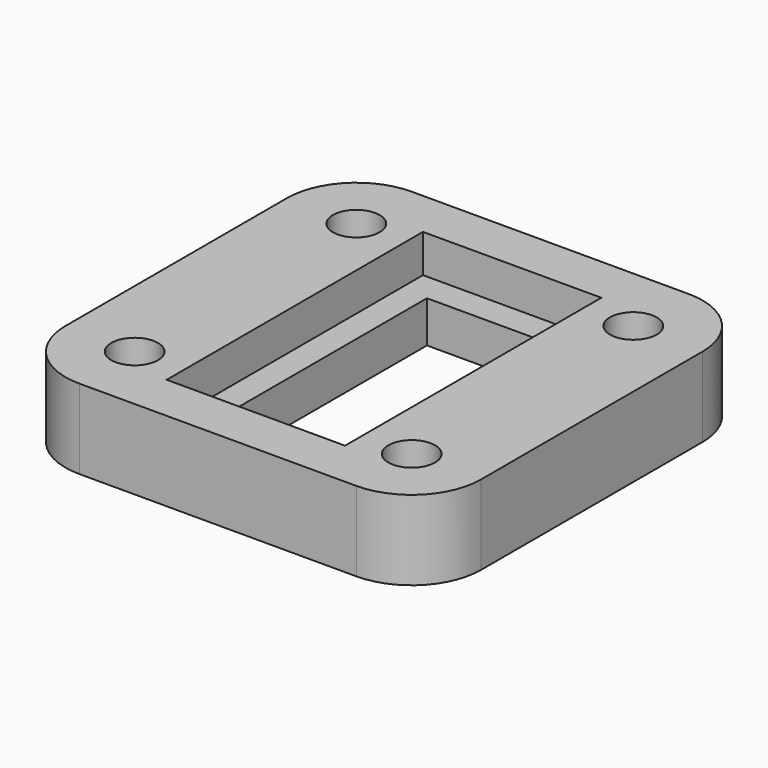
from build123d import *

# Parameters (mm, degrees)
F0_W     = 24
F0_H     = 24
F0_R     = 1.35
F1_DEPTH = 4.6
F2_W     = 7.2
F2_H     = 15.2
F3_DEPTH = 4.601
F2_W_2   = 10.3
F2_H_2   = 18.5
F4_DEPTH = 2.2
F5_R     = 4


with BuildPart() as f1:
    # F0 (on Top) → F1 (new body)
    with BuildSketch(Plane.XY):
        Rectangle(F0_W, F0_H)
        with Locations((-8, -8)):
            Circle(F0_R, mode=Mode.SUBTRACT)
        with Locations((8, -8)):
            Circle(F0_R, mode=Mode.SUBTRACT)
        with Locations((-8, 8)):
            Circle(F0_R, mode=Mode.SUBTRACT)
        with Locations((8, 8)):
            Circle(F0_R, mode=Mode.SUBTRACT)
    extrude(amount=F1_DEPTH)

    # F2 (on face) → F3 (cut, through all)
    with BuildSketch(Plane.XY.offset(4.6)):
        Rectangle(F2_W, F2_H)
    extrude(amount=-F3_DEPTH, mode=Mode.SUBTRACT)

    # F2 (on face) → F4 (cut)
    with BuildSketch(Plane.XY.offset(4.6)):
        Rectangle(F2_W_2, F2_H_2)
        Rectangle(F2_W, F2_H, mode=Mode.SUBTRACT)
    extrude(amount=-F4_DEPTH, mode=Mode.SUBTRACT)

    # F5
    f5_edges = [f1.edges().sort_by_distance(p)[0] for p in [
        (-12, 12, 2.3),
        (12, 12, 2.3),
        (12, -12, 2.3),
        (-12, -12, 2.3),
    ]]
    fillet(f5_edges, radius=F5_R)


solid = f1.part
